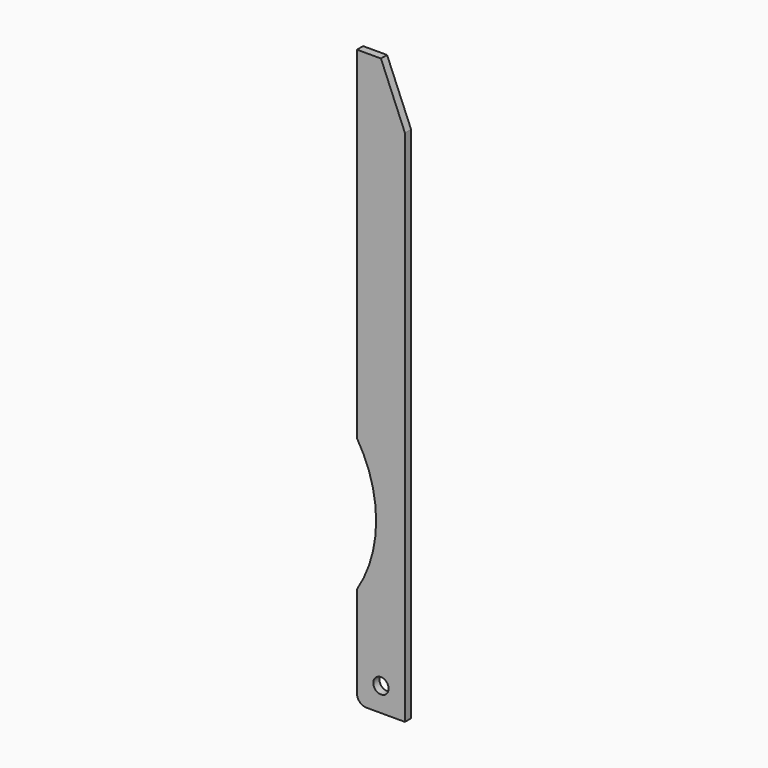
from build123d import *

# Parameters (mm, degrees)
F1_DEPTH = 8
F3_D     = 16
F4_R     = 10
F6_DEPTH = 25


with BuildPart() as f1:
    # F0 (on Front) → F1 (new body)
    with BuildSketch(Plane.XZ):
        with BuildLine():
            Line((0, 105.297409), (0, 0))
            Line((0, 0), (50, 0))
            Line((50, 0), (50, 600))
            Line((50, 600), (0, 600))
            Line((0, 600), (0, 243.861474))
            ThreePointArc((0, 243.861474), (20, 174.579442), (0, 105.297409))
        make_face()
    extrude(amount=F1_DEPTH)

    # F3 (through all)
    with Locations(Plane.XZ.offset(8)):
        with Locations((25, 25)):
            Hole(F3_D / 2)

    # F4
    f4_edges = [f1.edges().sort_by_distance(p)[0] for p in [
        (0, -4, 0),
    ]]
    fillet(f4_edges, radius=F4_R)

    # F5 (on face) → F6 (cut)
    with BuildSketch(Plane.XZ.offset(8)):
        Polygon((50, 600), (25, 600), (50, 539.896909), align=None)
    extrude(amount=-F6_DEPTH, mode=Mode.SUBTRACT)


solid = f1.part
